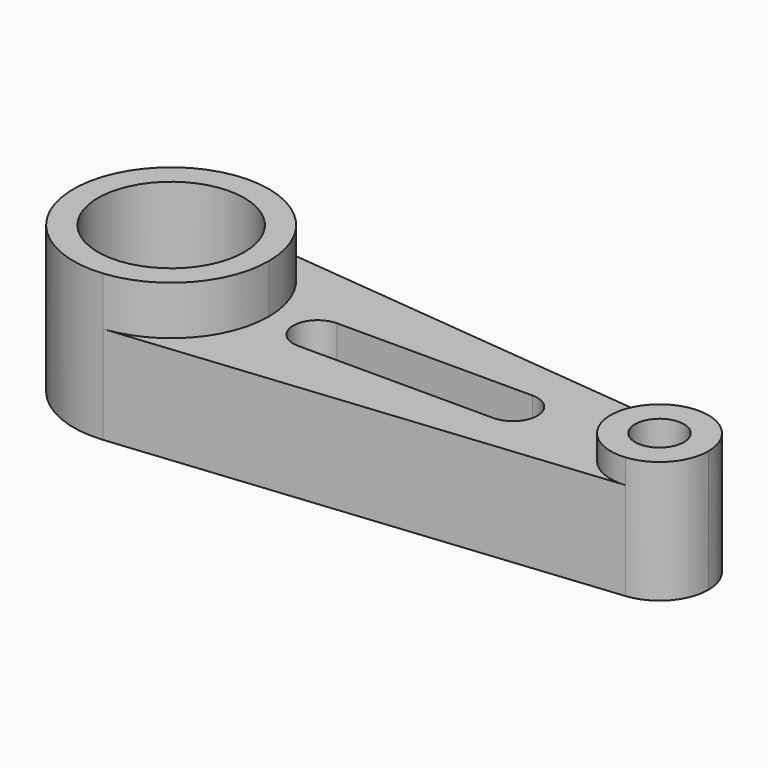
from build123d import *

# Parameters (mm, degrees)
F0_R     = 19.05
F1_DEPTH = 38.1
F0_R_2   = 6.35
F2_DEPTH = 31.75
F3_DEPTH = 25.4


with BuildPart() as f1:
    # F0 (on Top) → F1 (new body)
    with BuildSketch(Plane.XY):
        with BuildLine():
            ThreePointArc((-12.7, 0), (-19.262856, 17.038838), (-35.56, 25.272681))
            ThreePointArc((-35.56, 25.272681), (-63.5, 0), (-35.56, -25.272681))
            ThreePointArc((-35.56, -25.272681), (-19.262856, -17.038838), (-12.7, 0))
        make_face()
        with Locations((-38.1, 0)):
            Circle(F0_R, mode=Mode.SUBTRACT)
    extrude(amount=F1_DEPTH)


with BuildPart() as f2:
    # F0 (on Top) → F2 (new body)
    with BuildSketch(Plane.XY):
        with BuildLine():
            ThreePointArc((90.17, -12.63634), (98.318572, -8.519419), (101.6, 0))
            ThreePointArc((101.6, 0), (98.318572, 8.519419), (90.17, 12.63634))
            ThreePointArc((90.17, 12.63634), (76.2, 0), (90.17, -12.63634))
        make_face()
        with Locations((88.9, 0)):
            Circle(F0_R_2, mode=Mode.SUBTRACT)
    extrude(amount=F2_DEPTH)


with BuildPart() as f3:
    # F0 (on Top) → F3 (new body)
    with BuildSketch(Plane.XY):
        with BuildLine():
            ThreePointArc((90.17, -12.63634), (76.2, 0), (90.17, 12.63634))
            Line((90.17, 12.63634), (-35.56, 25.272681))
            ThreePointArc((-35.56, 25.272681), (-19.262856, 17.038838), (-12.7, 0))
            ThreePointArc((-12.7, 0), (-19.262856, -17.038838), (-35.56, -25.272681))
            Line((-35.56, -25.272681), (90.17, -12.63634))
        make_face()
        with BuildLine():
            ThreePointArc((0, -6.35), (-6.35, 0), (0, 6.35))
            Line((0, 6.35), (50.8, 6.35))
            ThreePointArc((50.8, 6.35), (57.15, 0), (50.8, -6.35))
            Line((50.8, -6.35), (0, -6.35))
        make_face(mode=Mode.SUBTRACT)
    extrude(amount=F3_DEPTH)


solid = Compound([f1.part, f2.part, f3.part])
